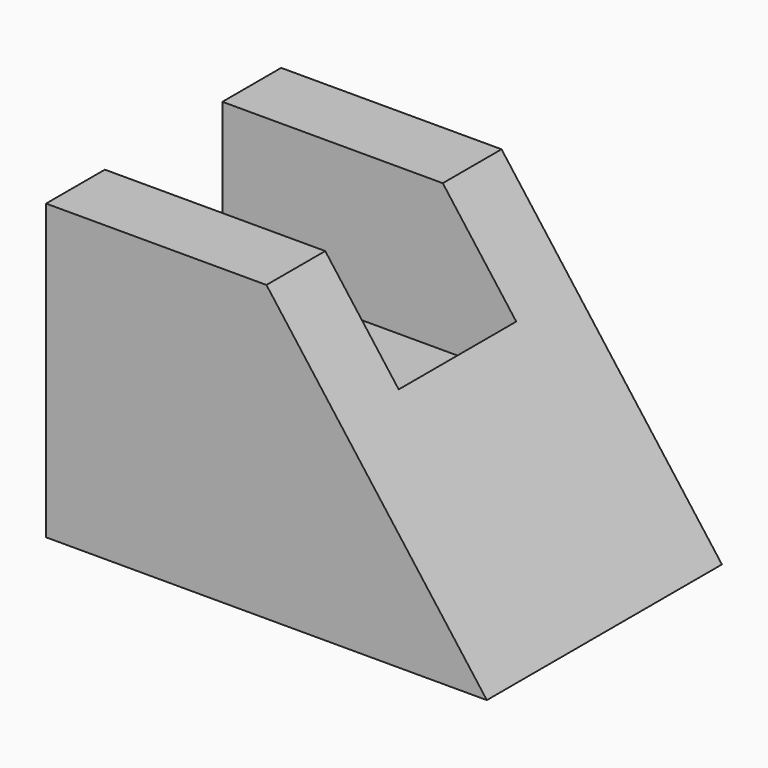
from build123d import *

# Parameters (mm, degrees)
F0_W     = 38.1
F0_H     = 25.4
F1_DEPTH = 12.7
F3_DEPTH = 25.4
F4_W     = 12.7
F4_H     = 12.7
F5_DEPTH = 25.4


with BuildPart() as f1:
    # F0 (on Front) → F1 (new body, symmetric)
    with BuildSketch(Plane.XZ):
        with Locations((19.05, 12.7)):
            Rectangle(F0_W, F0_H)
    extrude(amount=F1_DEPTH, both=True)

    # F2 (on face) → F3 (cut)
    with BuildSketch(Plane.XZ.offset(12.7)):
        Polygon((38.1, 25.4), (19.05, 25.4), (38.1, 0), align=None)
    extrude(amount=-F3_DEPTH, mode=Mode.SUBTRACT)

    # F4 (on Right) → F5 (cut)
    with BuildSketch(Plane.YZ):
        with Locations((0, 19.05)):
            Rectangle(F4_W, F4_H)
    extrude(amount=F5_DEPTH, mode=Mode.SUBTRACT)


solid = f1.part
